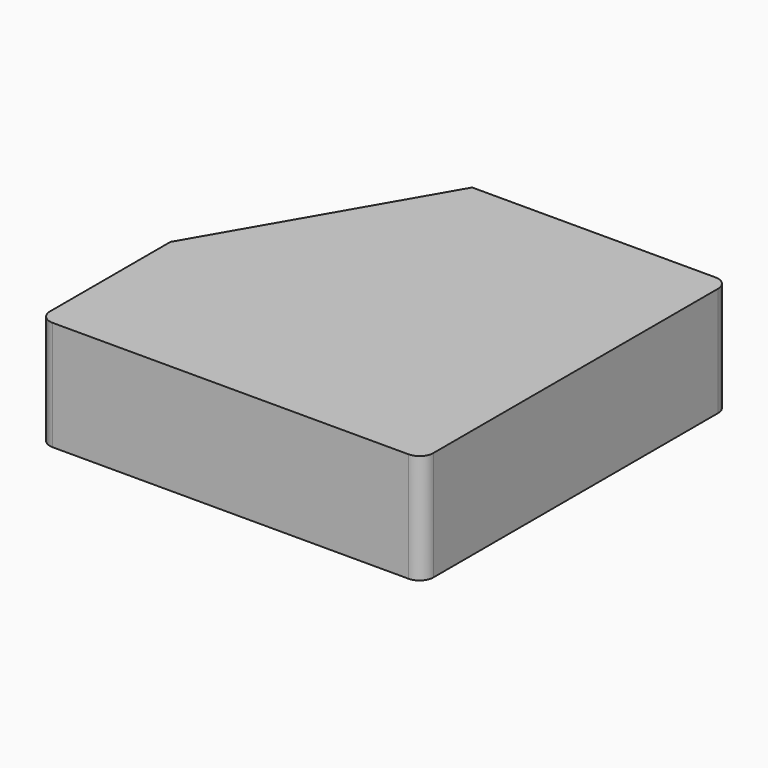
from build123d import *

# Parameters (mm, degrees)
F1_DEPTH = 25.4


with BuildPart() as f1:
    # F0 (on Top) → F1 (new body)
    with BuildSketch(Plane.XY):
        with BuildLine():
            ThreePointArc((44.45, 41.275), (43.520064, 43.520064), (41.275, 44.45))
            Line((41.275, 44.45), (-15.120606, 44.45))
            Line((-15.120606, 44.45), (-44.45, -6.35))
            Line((-44.45, -6.35), (-44.45, -41.275))
            ThreePointArc((-44.45, -41.275), (-43.520064, -43.520064), (-41.275, -44.45))
            Line((-41.275, -44.45), (41.275, -44.45))
            ThreePointArc((41.275, -44.45), (43.520064, -43.520064), (44.45, -41.275))
            Line((44.45, -41.275), (44.45, 41.275))
        make_face()
    extrude(amount=F1_DEPTH)


solid = f1.part
